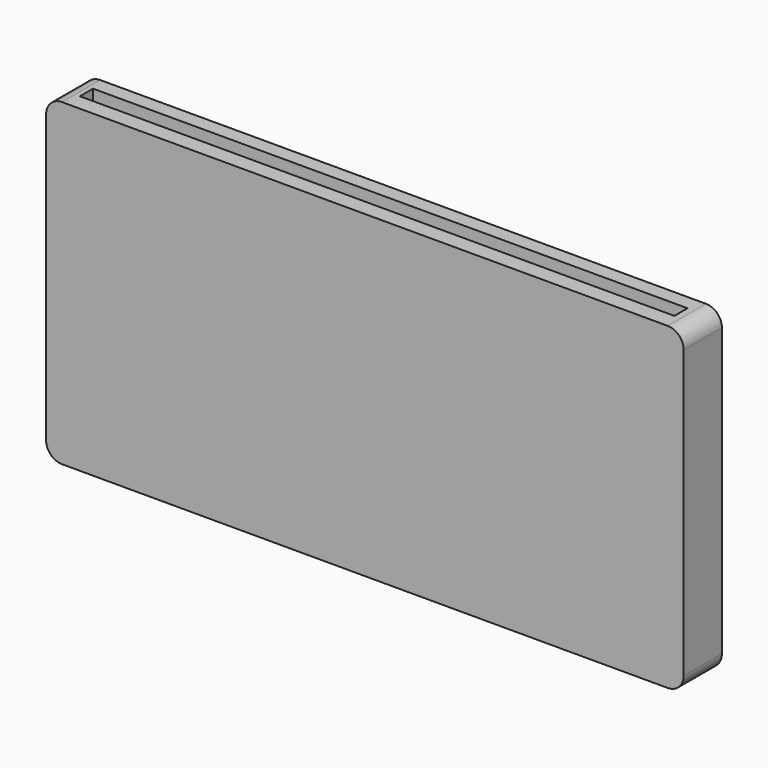
from build123d import *

# Parameters (mm, degrees)
F0_W          = 200
F0_H          = 100
F1_DEPTH      = 15
F2_W          = 186.494716
F2_H          = 5.16998
F3_DEPTH      = 25.4
F3_DEPTH_BACK = 187.415063
F4_R          = 5


with BuildPart() as f1:
    # F0 (on Front) → F1 (new body)
    with BuildSketch(Plane.XZ):
        with Locations((0.974886, 12.01759)):
            Rectangle(F0_W, F0_H)
    extrude(amount=F1_DEPTH)

    # F2 (on face) → F3 (cut, two sides)
    with BuildSketch(Plane(origin=(0, 0, -37.98241), x_dir=(1, 0, 0), z_dir=(0, 0, -1))) as f3_sk:
        with Locations((0.691179, 7.258117)):
            Rectangle(F2_W, F2_H)
    extrude(amount=F3_DEPTH, mode=Mode.SUBTRACT)
    extrude(f3_sk.sketch, amount=-F3_DEPTH_BACK, mode=Mode.SUBTRACT)

    # F4
    f4_edges = [f1.edges().sort_by_distance(p)[0] for p in [
        (-99.025114, -7.5, 62.01759),
        (100.974886, -7.5, 62.01759),
        (100.974886, -7.5, -37.98241),
        (-99.025114, -7.5, -37.98241),
    ]]
    fillet(f4_edges, radius=F4_R)


solid = f1.part
